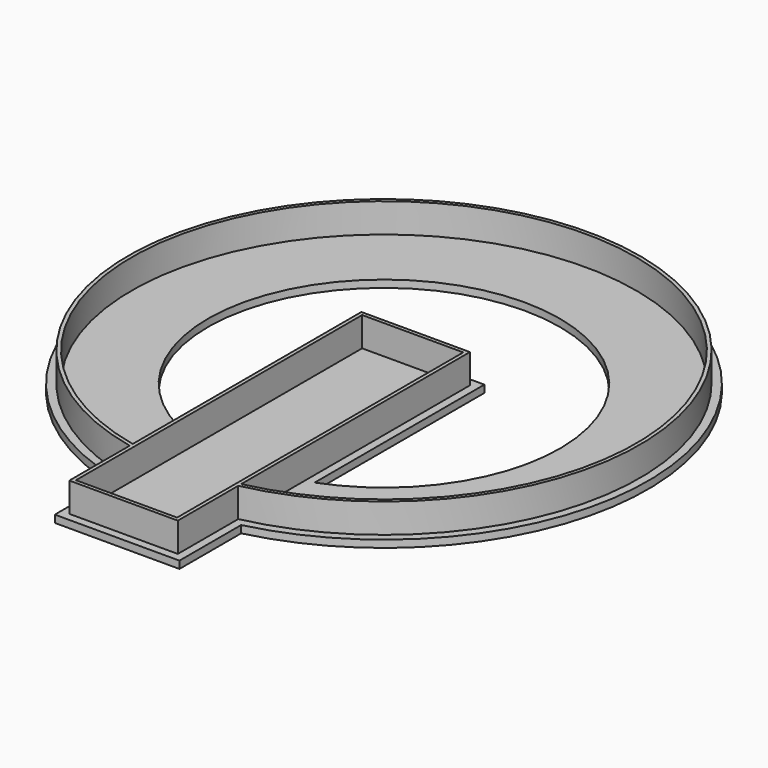
from build123d import *

# Parameters (mm, degrees)
F0_R      = 69.8
F0_R_2    = 68.8
F1_DEPTH  = 10
F2_W      = 29.6
F2_H      = 99.6
F2_W_2    = 27.6
F2_H_2    = 97.6
F3_DEPTH  = 10
F4_R      = 68.8
F4_R_2    = 48
F5_DEPTH  = 2
F6_R      = 72
F6_R_2    = 69.8
F7_DEPTH  = 2
F8_W      = 34
F8_H      = 104
F8_W_2    = 29.6
F8_H_2    = 99.6
F9_DEPTH  = 2
F10_W     = 27.6
F10_H     = 97.6
F11_DEPTH = 2
F12_W     = 27.6
F12_H     = 8
F13_DEPTH = 70


with BuildPart() as f1:
    # F0 (on Top) → F1 (new body)
    with BuildSketch(Plane.XY):
        Circle(F0_R)
        Circle(F0_R_2, mode=Mode.SUBTRACT)
    extrude(amount=F1_DEPTH)

    # F2 (on Top) → F3 (join)
    with BuildSketch(Plane.XY):
        with Locations((0, -39)):
            Rectangle(F2_W, F2_H)
        with Locations((0, -39)):
            Rectangle(F2_W_2, F2_H_2, mode=Mode.SUBTRACT)
    extrude(amount=F3_DEPTH)

    # F4 (on Top) → F5 (join)
    with BuildSketch(Plane.XY):
        Circle(F4_R)
        Circle(F4_R_2, mode=Mode.SUBTRACT)
    extrude(amount=F5_DEPTH)

    # F6 (on Top) → F7 (join)
    with BuildSketch(Plane.XY):
        Circle(F6_R)
        Circle(F6_R_2, mode=Mode.SUBTRACT)
    extrude(amount=F7_DEPTH)

    # F8 (on Top) → F9 (join)
    with BuildSketch(Plane.XY):
        with Locations((0, -39)):
            Rectangle(F8_W, F8_H)
        with Locations((0, -39)):
            Rectangle(F8_W_2, F8_H_2, mode=Mode.SUBTRACT)
    extrude(amount=F9_DEPTH)

    # F10 (on Top) → F11 (join)
    with BuildSketch(Plane.XY):
        with Locations((0, -39)):
            Rectangle(F10_W, F10_H)
    extrude(amount=F11_DEPTH)

    # F12 (on Front) → F13 (cut)
    with BuildSketch(Plane.XZ):
        with Locations((0, 6)):
            Rectangle(F12_W, F12_H)
    extrude(amount=F13_DEPTH, mode=Mode.SUBTRACT)


solid = f1.part
